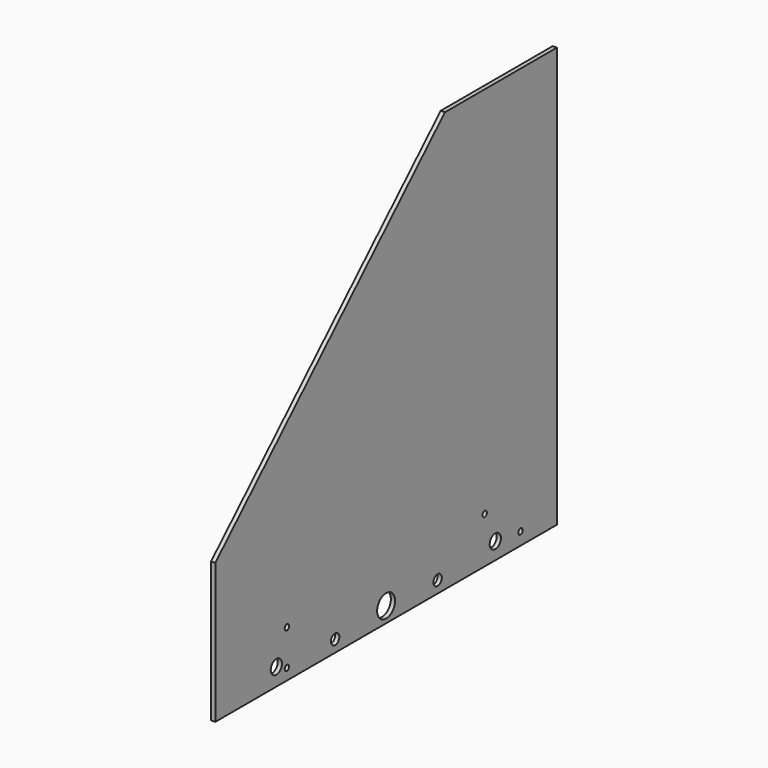
from build123d import *

# Parameters (mm, degrees)
F0_R     = 10
F0_R_2   = 4
F0_R_3   = 7.5
F0_R_4   = 16
F1_DEPTH = 6


with BuildPart() as f1:
    # F0 (on Right) → F1 (new body)
    with BuildSketch(Plane.YZ):
        Polygon((-496, 0), (0, 0), (0, 600), (-200, 600), (-610, 200), (-610, 0), align=None)
        with Locations((-501, 25)):
            Circle(F0_R, mode=Mode.SUBTRACT)
        with Locations((-482, 16)):
            Circle(F0_R_2, mode=Mode.SUBTRACT)
        with Locations((-482, 67)):
            Circle(F0_R_2, mode=Mode.SUBTRACT)
        with Locations((-396, 17)):
            Circle(F0_R_3, mode=Mode.SUBTRACT)
        with Locations((-305, 22)):
            Circle(F0_R_4, mode=Mode.SUBTRACT)
        with Locations((-213, 17)):
            Circle(F0_R_3, mode=Mode.SUBTRACT)
        with Locations((-110, 24)):
            Circle(F0_R, mode=Mode.SUBTRACT)
        with Locations((-129, 66)):
            Circle(F0_R_2, mode=Mode.SUBTRACT)
        with Locations((-65, 18)):
            Circle(F0_R_2, mode=Mode.SUBTRACT)
    extrude(amount=F1_DEPTH)


solid = f1.part
